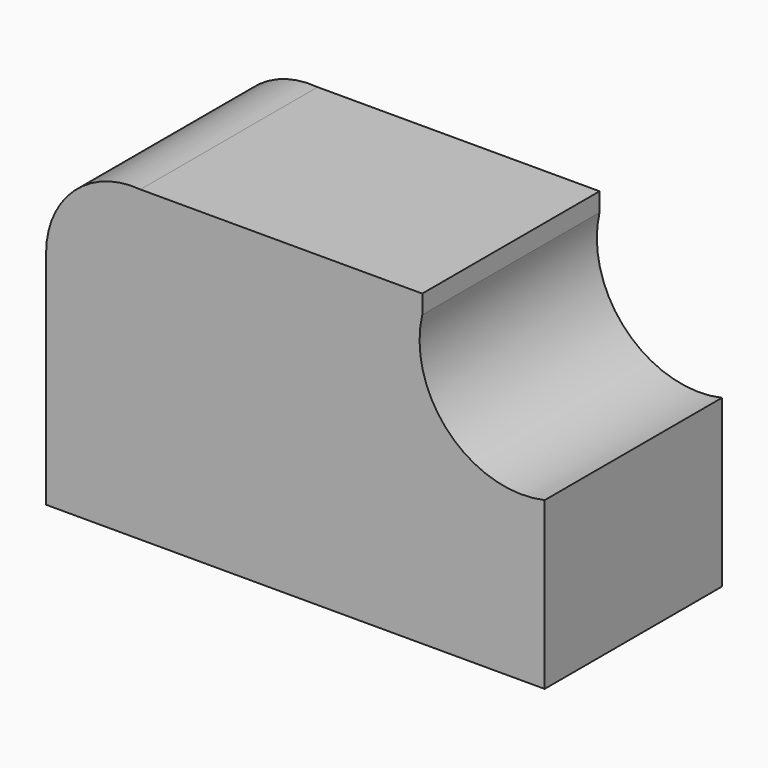
from build123d import *

# Parameters (mm, degrees)
F1_DEPTH = 25.4


with BuildPart() as f1:
    # F0 (on Front) → F1 (new body)
    with BuildSketch(Plane.XZ):
        with BuildLine():
            Line((0, 25.4), (0, 0))
            Line((0, 0), (57.15, 0))
            Line((57.15, 0), (57.15, 19.05))
            ThreePointArc((57.15, 19.05), (46.224103, 22.240743), (43.119747, 33.191498))
            Line((43.119747, 33.191498), (43.119747, 35.332885))
            Line((43.119747, 35.332885), (10.804269, 35.332885))
            ThreePointArc((10.804269, 35.332885), (3.221699, 32.738161), (0, 25.4))
        make_face()
    extrude(amount=F1_DEPTH)


solid = f1.part
